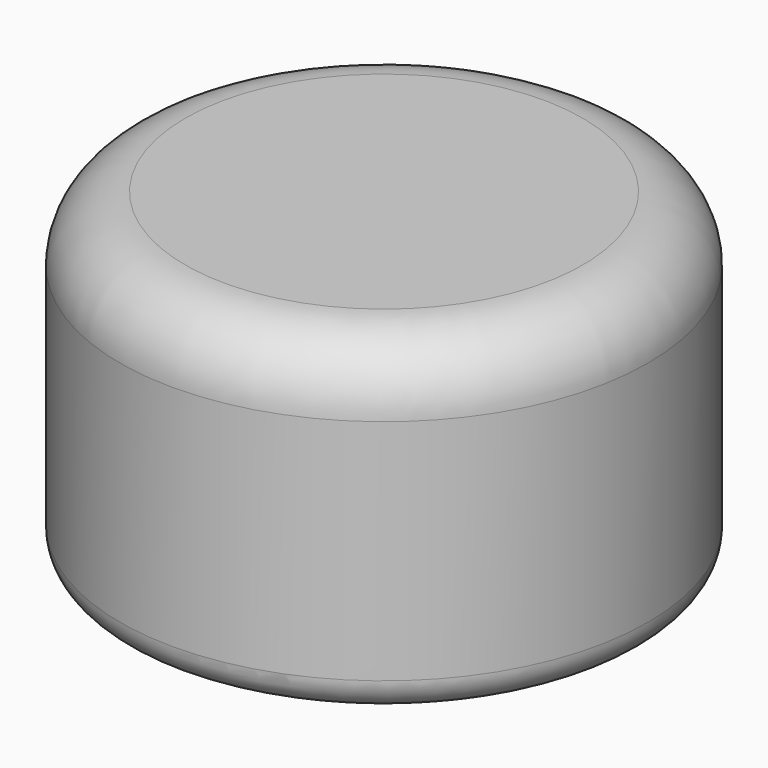
from build123d import *


with BuildPart() as f1:
    # F0 (on Front) → F1 (revolve)
    with BuildSketch(Plane.XZ):
        with BuildLine():
            Line((-6.2, 6.1), (0, 6.1))
            Line((0, 6.1), (0, 13.9))
            Line((0, 13.9), (-12.2, 13.9))
            ThreePointArc((-12.2, 13.9), (-15.028427, 12.728427), (-16.2, 9.9))
            Line((-16.2, 9.9), (-16.2, 6.1))
            Line((-16.2, 6.1), (-6.2, 6.1))
        make_face()
        with BuildLine():
            Line((-6.2, -6.1), (-6.2, 6.1))
            Line((-6.2, 6.1), (-16.2, 6.1))
            Line((-16.2, 6.1), (-16.2, -4.1))
            ThreePointArc((-16.2, -4.1), (-15.614214, -5.514214), (-14.2, -6.1))
            Line((-14.2, -6.1), (-6.2, -6.1))
        make_face()
    revolve(axis=Axis((0, 0, 10), (0, 0, -1)))


solid = f1.part
